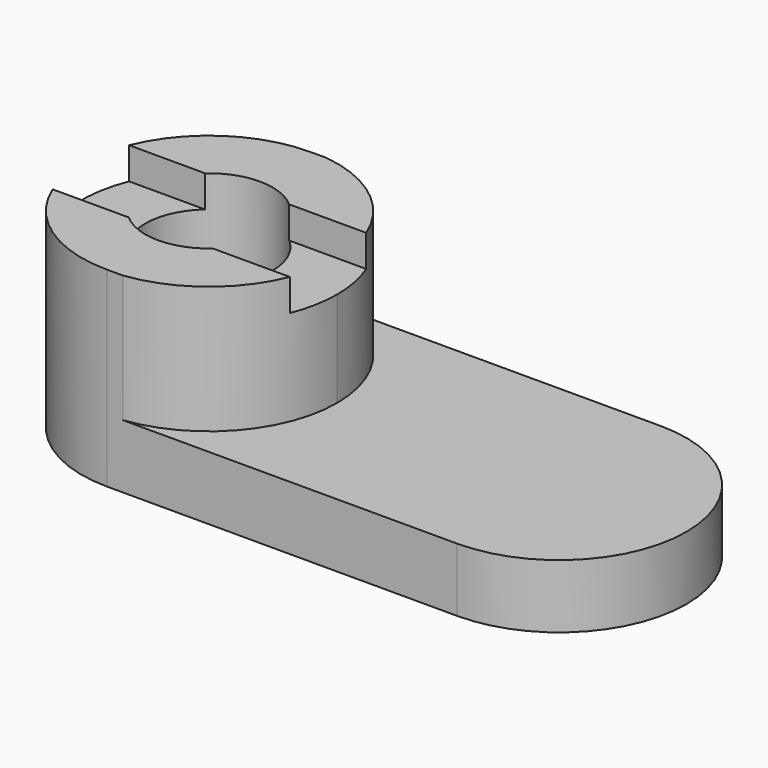
from build123d import *

# Parameters (mm, degrees)
F1_DEPTH = 10
F3_DEPTH = 20
F4_R     = 10
F5_DEPTH = 30.001
F7_DEPTH = 5


with BuildPart() as f1:
    # F0 (on Top) → F1 (new body)
    with BuildSketch(Plane.XY):
        with BuildLine():
            Line((55, 20), (0, 20))
            ThreePointArc((0, 20), (-20, 0), (0, -20))
            Line((0, -20), (55, -20))
            ThreePointArc((55, -20), (75, 0), (55, 20))
        make_face()
    extrude(amount=F1_DEPTH)

    # F2 (on face) → F3 (join)
    with BuildSketch(Plane.XY.offset(10)):
        with BuildLine():
            ThreePointArc((2.4982464904, -20), (15.1095079365, -13.3395654143), (20.1554269498, 0))
            ThreePointArc((20.1554269498, 0), (15.1095079365, 13.3395654143), (2.4982464904, 20))
            Line((2.4982464904, 20), (0, 20))
            ThreePointArc((0, 20), (-20, 0), (0, -20))
            Line((0, -20), (2.4982464904, -20))
        make_face()
    extrude(amount=F3_DEPTH)

    # F4 (on face) → F5 (cut, through all)
    with BuildSketch(Plane.XY.offset(30)):
        Circle(F4_R)
    extrude(amount=-F5_DEPTH, mode=Mode.SUBTRACT)

    # F6 (on face) → F7 (cut)
    with BuildSketch(Plane.XY.offset(30)):
        with BuildLine():
            Line((-6.6143782777, 7.5), (-18.5404962177, 7.5))
            ThreePointArc((-18.5404962177, 7.5), (-20, 0), (-18.5404962177, -7.5))
            Line((-18.5404962177, -7.5), (-6.6143782777, -7.5))
            ThreePointArc((-6.6143782777, -7.5), (-10, 0), (-6.6143782777, 7.5))
        make_face()
        with BuildLine():
            Line((18.708052692, 7.5), (6.6143782777, 7.5))
            ThreePointArc((6.6143782777, 7.5), (9.1143782777, 4.1143782777), (10, 0))
            ThreePointArc((10, 0), (9.1143782777, -4.1143782777), (6.6143782777, -7.5))
            Line((6.6143782777, -7.5), (18.708052692, -7.5))
            ThreePointArc((18.708052692, -7.5), (20.1554269498, 0), (18.708052692, 7.5))
        make_face()
    extrude(amount=-F7_DEPTH, mode=Mode.SUBTRACT)


solid = f1.part
